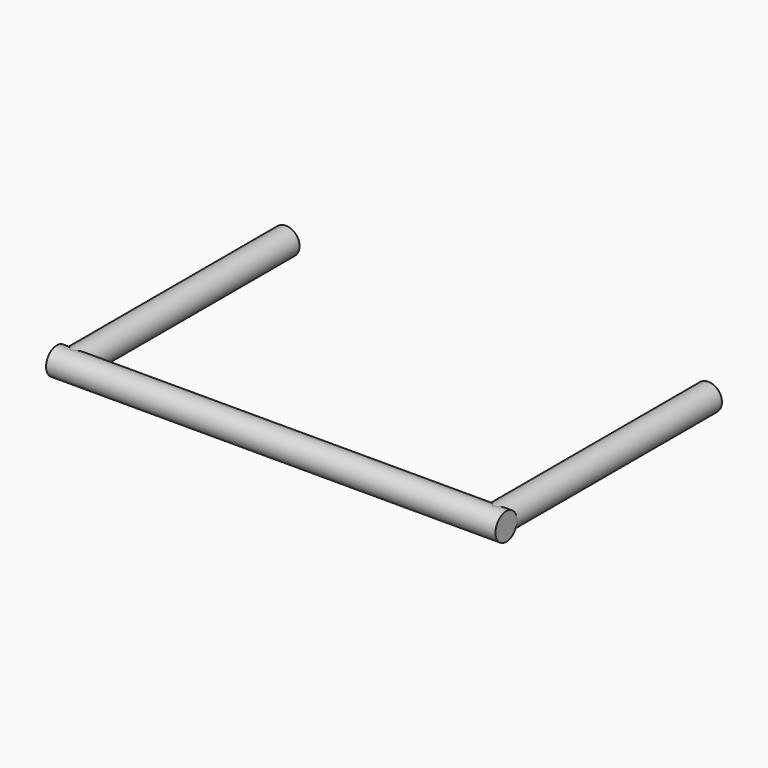
from build123d import *

# Parameters (mm, degrees)
CYLINDER026_R             = 3
CYLINDER026_DEPTH         = 60
CYLINDER026_PITCH_ANGLE   = 90
CYLINDER025_R             = 3
CYLINDER025_DEPTH         = 100
CYLINDER025_ROLL_ANGLE    = 90
CYLINDER027_R             = 3
CYLINDER027_DEPTH         = 60
CYLINDER027_PITCH_ANGLE   = 90
FUSION011_PLACEMENT_ANGLE = 90


with BuildPart() as cylinder032:
    # Cylinder026 → Cylinder026 (new body)
    with BuildSketch(Plane.XY):
        Circle(CYLINDER026_R)
    extrude(amount=CYLINDER026_DEPTH)


with BuildPart() as cylinder032_1:
    # Cylinder026 pitch: moved
    add(cylinder032.part.rotate(Axis((0, 0, 0), (0, 1, 0)), CYLINDER026_PITCH_ANGLE))


with BuildPart() as cylinder032_2:
    # Cylinder026 placement: moved
    add(cylinder032_1.part.moved(Location((-50, -3, 0))))


with BuildPart() as fusion010:
    # Cylinder025 → Cylinder025 (new body)
    with BuildSketch(Plane.XY):
        Circle(CYLINDER025_R)
    extrude(amount=CYLINDER025_DEPTH)


with BuildPart() as fusion010_1:
    # Cylinder025 roll: moved
    add(fusion010.part.rotate(Axis((0, 0, 0), (1, 0, 0)), CYLINDER025_ROLL_ANGLE))


with BuildPart() as fusion010_2:
    # Cylinder025 placement: moved
    add(fusion010_1.part.moved(Location((-50, 0, 0))))

    # Fusion010: union Cylinder032
    add(cylinder032_2.part)


with BuildPart() as handle_top:
    # Cylinder027 → Cylinder027 (new body)
    with BuildSketch(Plane.XY):
        Circle(CYLINDER027_R)
    extrude(amount=CYLINDER027_DEPTH)


with BuildPart() as handle_top_1:
    # Cylinder027 pitch: moved
    add(handle_top.part.rotate(Axis((0, 0, 0), (0, 1, 0)), CYLINDER027_PITCH_ANGLE))


with BuildPart() as handle_top_2:
    # Cylinder027 placement: moved
    add(handle_top_1.part.moved(Location((-50, -97, 0))))

    # Fusion011: union Fusion010
    add(fusion010_2.part)


with BuildPart() as handle_top_3:
    # Fusion011 placement: moved
    add(handle_top_2.part.moved(Location((195, 105, 330))).rotate(Axis((195, 105, 330), (0, 0, 1)), FUSION011_PLACEMENT_ANGLE))


solid = handle_top_3.part
